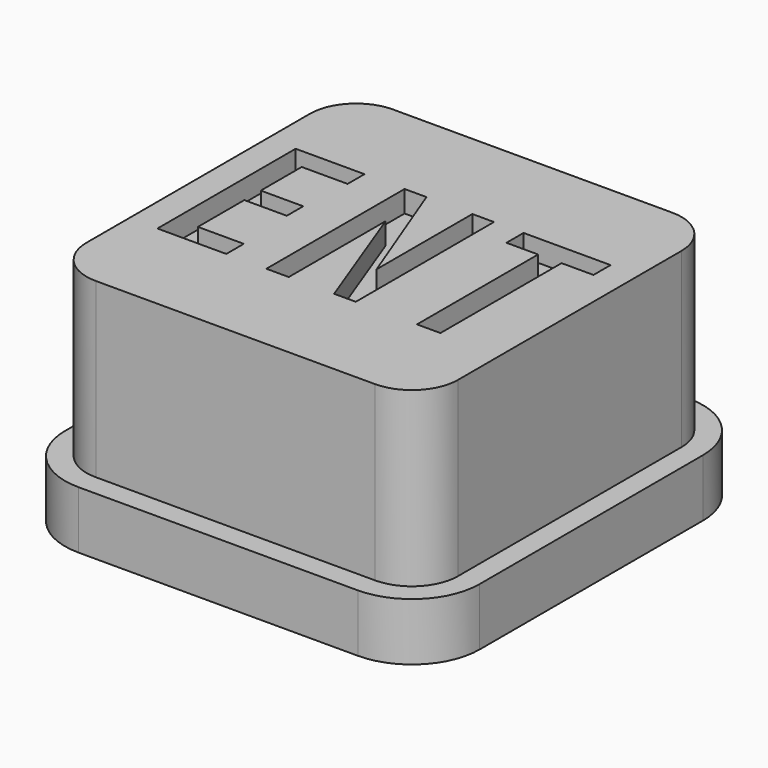
from build123d import *

# Parameters (mm, degrees)
F1_DEPTH = 2
F2_DEPTH = 8
F3_DEPTH = 7.25


with BuildPart() as f1:
    # F0 (on Top) → F1 (new body)
    with BuildSketch(Plane.XY):
        with BuildLine():
            Line((4.85, 7.2), (-4.85, 7.2))
            ThreePointArc((-4.85, 7.2), (-6.511701, 6.511701), (-7.2, 4.85))
            Line((-7.2, 4.85), (-7.2, -4.85))
            ThreePointArc((-7.2, -4.85), (-6.511701, -6.511701), (-4.85, -7.2))
            Line((-4.85, -7.2), (4.85, -7.2))
            ThreePointArc((4.85, -7.2), (6.511701, -6.511701), (7.2, -4.85))
            Line((7.2, -4.85), (7.2, 4.85))
            ThreePointArc((7.2, 4.85), (6.511701, 6.511701), (4.85, 7.2))
        make_face()
        with BuildLine():
            ThreePointArc((6.45, -4.85), (5.981371, -5.981371), (4.85, -6.45))
            Line((4.85, -6.45), (-4.85, -6.45))
            ThreePointArc((-4.85, -6.45), (-5.981371, -5.981371), (-6.45, -4.85))
            Line((-6.45, -4.85), (-6.45, 4.85))
            ThreePointArc((-6.45, 4.85), (-5.981371, 5.981371), (-4.85, 6.45))
            Line((-4.85, 6.45), (4.85, 6.45))
            ThreePointArc((4.85, 6.45), (5.981371, 5.981371), (6.45, 4.85))
            Line((6.45, 4.85), (6.45, -4.85))
        make_face(mode=Mode.SUBTRACT)
    extrude(amount=F1_DEPTH)

    # F0 (on Top) → F2 (join)
    with BuildSketch(Plane.XY):
        with BuildLine():
            Line((-4.85, -6.45), (4.85, -6.45))
            ThreePointArc((4.85, -6.45), (5.981371, -5.981371), (6.45, -4.85))
            Line((6.45, -4.85), (6.45, 4.85))
            ThreePointArc((6.45, 4.85), (5.981371, 5.981371), (4.85, 6.45))
            Line((4.85, 6.45), (-4.85, 6.45))
            ThreePointArc((-4.85, 6.45), (-5.981371, 5.981371), (-6.45, 4.85))
            Line((-6.45, 4.85), (-6.45, -4.85))
            ThreePointArc((-6.45, -4.85), (-5.981371, -5.981371), (-4.85, -6.45))
        make_face()
        Polygon((-3.077863, -3), (-5.468703, -3), (-5.468703, 3), (-3.077863, 3), (-3.077863, 2.267176), (-4.671756, 2.267176), (-4.671756, 0.490077), (-3.196947, 0.490077), (-3.196947, -0.224427), (-4.671756, -0.224427), (-4.671756, -2.239694), (-3.077863, -2.239694), align=None, mode=Mode.SUBTRACT)
        Polygon((-0.906871, -3), (-1.685497, -3), (-1.685497, 3), (-0.925191, 3), (0.668702, -1.158778), (0.668702, 3), (1.419847, 3), (1.419847, -3), (0.668702, -3), (-0.906871, 1.204581), align=None, mode=Mode.SUBTRACT)
        Polygon((4.360305, -3), (3.545038, -3), (3.545038, 2.258016), (2.445801, 2.258016), (2.445801, 3), (5.468702, 3), (5.468702, 2.258016), (4.360305, 2.258016), align=None, mode=Mode.SUBTRACT)
    extrude(amount=F2_DEPTH)

    # F0 (on Top) → F3 (join)
    with BuildSketch(Plane.XY):
        Polygon((-5.468703, 3), (-5.468703, -3), (-3.077863, -3), (-3.077863, -2.239694), (-4.671756, -2.239694), (-4.671756, -0.224427), (-3.196947, -0.224427), (-3.196947, 0.490077), (-4.671756, 0.490077), (-4.671756, 2.267176), (-3.077863, 2.267176), (-3.077863, 3), align=None)
        Polygon((-1.685497, 3), (-1.685497, -3), (-0.906871, -3), (-0.906871, 1.204581), (0.668702, -3), (1.419847, -3), (1.419847, 3), (0.668702, 3), (0.668702, -1.158778), (-0.925191, 3), align=None)
        Polygon((3.545038, 2.258016), (3.545038, -3), (4.360305, -3), (4.360305, 2.258016), (5.468702, 2.258016), (5.468702, 3), (2.445801, 3), (2.445801, 2.258016), align=None)
    extrude(amount=F3_DEPTH)


solid = f1.part
